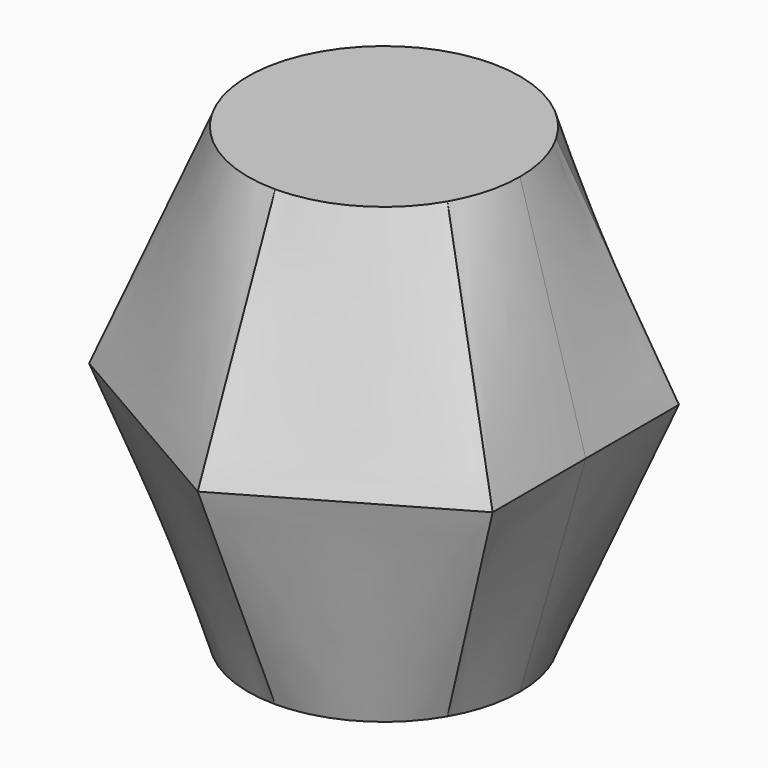
from build123d import *

# Parameters (mm, degrees)
F0_R = 30


with BuildPart() as f3:
    # F2 (on offset) → F3 section 0
    with BuildSketch(Plane.XY.offset(50)):
        Polygon((0.014255, -51.377053), (44.50096, -25.676181), (44.486705, 25.700871), (-0.014255, 51.377053), (-44.50096, 25.676181), (-44.486705, -25.700871), align=None)
    # F0 (on Top) → F3 section 1
    with BuildSketch(Plane.XY):
        Circle(F0_R)
    loft()

    # F4: F3 across plane


with BuildPart() as f3_1:
    add(f3.part)
    add(f3.part.mirror(Plane.XY.offset(50)))


solid = f3_1.part
